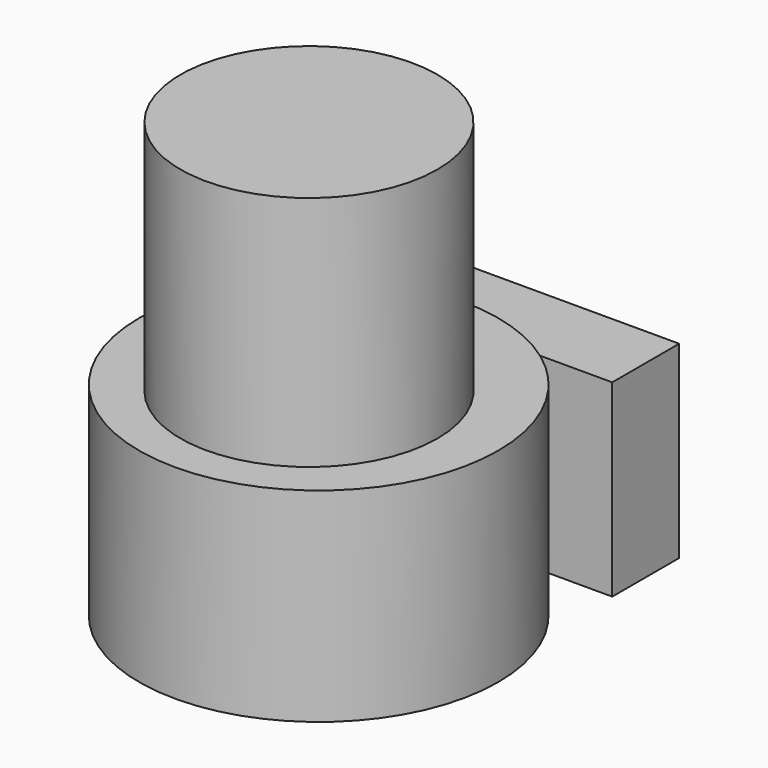
from build123d import *

# Parameters (mm, degrees)
F0_R     = 57.695631
F1_DEPTH = 65.480502
F2_R     = 41.302375
F3_DEPTH = 141.575145
F4_W     = 26.883833
F4_H     = 60.637102
F5_DEPTH = 84.917324


with BuildPart() as f1:
    # F0 (on Top) → F1 (new body)
    with BuildSketch(Plane.XY):
        with Locations((33.90348, 64.872049)):
            Circle(F0_R)
    extrude(amount=F1_DEPTH)

    # F2 (on Top) → F3 (join)
    with BuildSketch(Plane.XY):
        with Locations((34.258131, 60.523979)):
            Circle(F2_R)
    extrude(amount=F3_DEPTH)

    # F4 (on Right) → F5 (join)
    with BuildSketch(Plane.YZ):
        with Locations((132.467243, 30.318551)):
            Rectangle(F4_W, F4_H)
    extrude(amount=F5_DEPTH)


solid = f1.part
